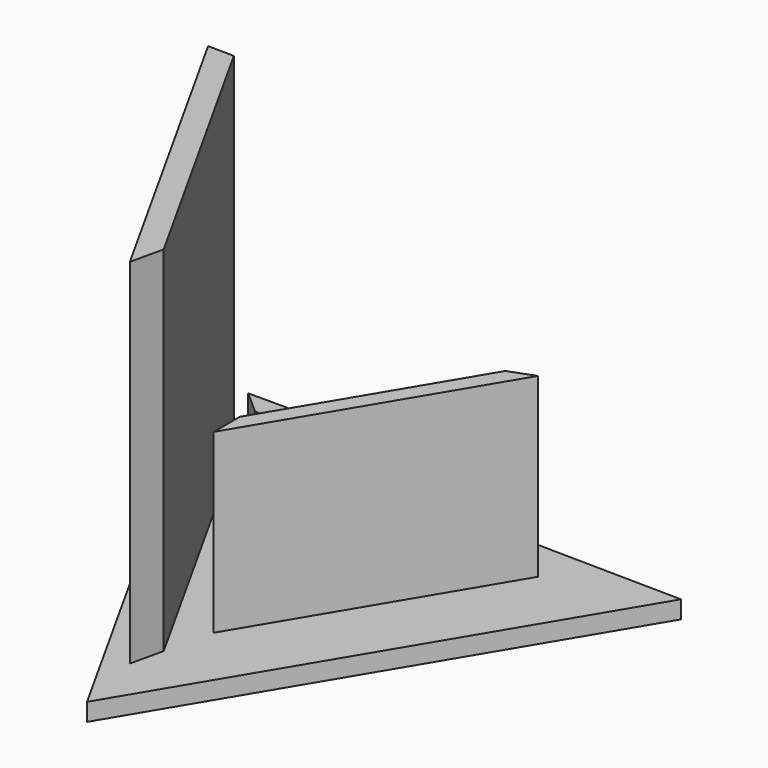
from build123d import *

# Parameters (mm, degrees)
F1_DEPTH = 5
F3_DEPTH = 100
F4_DEPTH = 50
F5_DEPTH = 25


with BuildPart() as f1:
    # F0 (on Top) → F1 (new body)
    with BuildSketch(Plane.XY):
        Polygon((-1.194454, -60.107594), (70.600725, 60.107594), (-69.406271, 62.176449), align=None)
    extrude(amount=F1_DEPTH)

    # F2 (on face) → F3 (join)
    with BuildSketch(Plane.XY.offset(5)):
        Polygon((-48.847037, 51.363251), (-56.216117, 51.472142), (-5.24076, -39.911917), (-3.140415, -30.575492), align=None)
    extrude(amount=F3_DEPTH)

    # F2 (on face) → F4 (join)
    with BuildSketch(Plane.XY.offset(5)):
        Polygon((0, -7.590361), (0, -16.841115), (39.198391, 48.793401), (32.101094, 46.160308), align=None)
    extrude(amount=F4_DEPTH)

    # F2 (on face) → F5 (join)
    with BuildSketch(Plane.XY.offset(5)):
        Polygon((23.482682, 39.849401), (-35.579819, 39.849401), (-28.938254, 33.985027), (19.980348, 33.985027), align=None)
    extrude(amount=F5_DEPTH)


solid = f1.part
